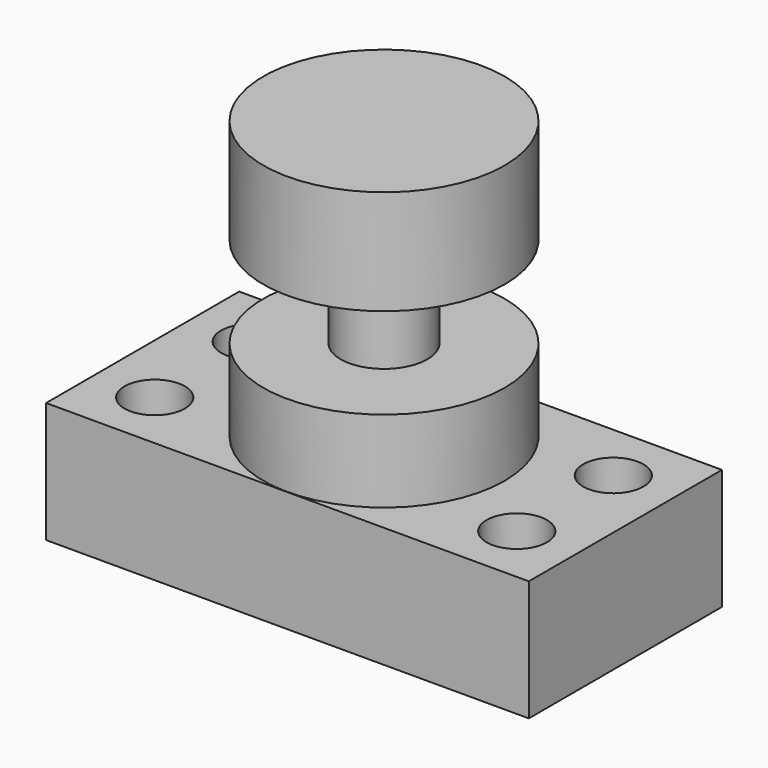
from build123d import *

# Parameters (mm, degrees)
F0_W     = 101.6
F0_H     = 50.8
F1_DEPTH = 25.4
F2_R     = 6.35
F3_DEPTH = 25.401
F4_W     = 25.4
F4_H     = 58.42
F6_W     = 54.745491
F6_H     = 19.160923


with BuildPart() as f1:
    # F0 (on Top) → F1 (new body)
    with BuildSketch(Plane.XY):
        Rectangle(F0_W, F0_H)
    extrude(amount=F1_DEPTH)

    # F2 (on face) → F3 (cut, through all)
    with BuildSketch(Plane.XY.offset(25.4)):
        with Locations((-38.1, 12.7)):
            Circle(F2_R)
        with Locations((-38.1, -12.7)):
            Circle(F2_R)
        with Locations((38.1, -12.7)):
            Circle(F2_R)
        with Locations((38.1, 12.7)):
            Circle(F2_R)
    extrude(amount=-F3_DEPTH, mode=Mode.SUBTRACT)


with BuildPart() as f5:
    # F4 (on Front) → F5 (revolve)
    with BuildSketch(Plane.XZ):
        with Locations((12.7, 54.645675)):
            Rectangle(F4_W, F4_H)
    revolve(axis=Axis((0, 0, 54.645675), (0, 0, -1)))

    # F6 (on Front) → F7 (revolve, cut)
    with BuildSketch(Plane.XZ):
        with Locations((-36.496992, 52.23632)):
            Rectangle(F6_W, F6_H)
    revolve(axis=Axis((0, 0, 54.645675), (0, 0, -1)), mode=Mode.SUBTRACT)


solid = Compound([f1.part, f5.part])
